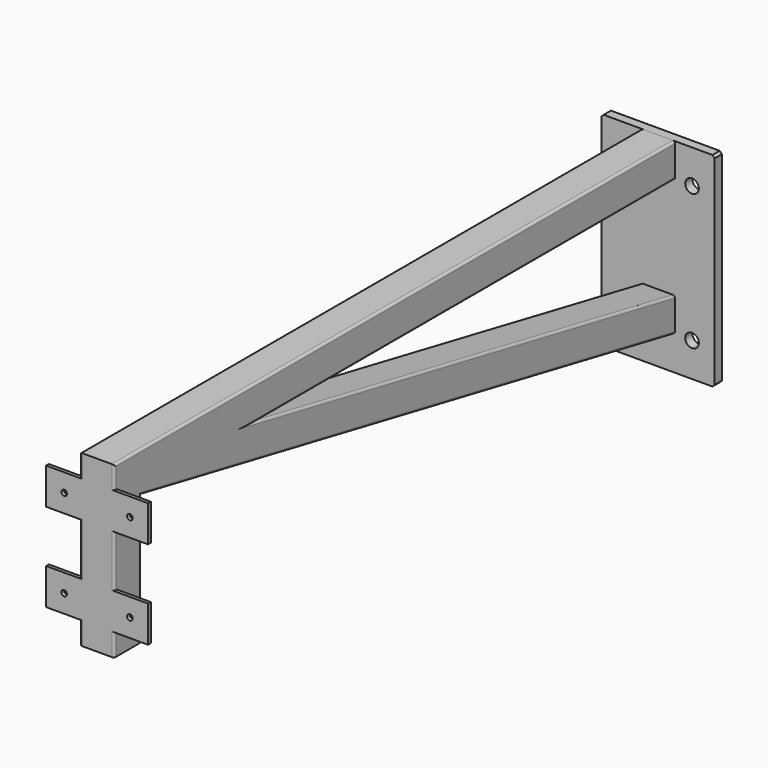
from build123d import *

# Parameters (mm, degrees)
F0_W      = 100
F0_H      = 180
F0_R      = 6
F1_DEPTH  = 8
F2_SIZE   = 2
F4_W      = 24
F4_H      = 24
F8_DEPTH  = 3
F9_W      = 32
F9_H      = 32
F9_R      = 2.5
F10_DEPTH = 3


with BuildPart() as f1:
    # F0 (on Front) → F1 (new body)
    with BuildSketch(Plane.XZ):
        Rectangle(F0_W, F0_H)
        with Locations((-30, -60)):
            Circle(F0_R, mode=Mode.SUBTRACT)
        with Locations((30, -60)):
            Circle(F0_R, mode=Mode.SUBTRACT)
        with Locations((-30, 60)):
            Circle(F0_R, mode=Mode.SUBTRACT)
        with Locations((30, 60)):
            Circle(F0_R, mode=Mode.SUBTRACT)
    extrude(amount=F1_DEPTH)

    # F2
    f2_edges = [f1.edges().sort_by_distance(p)[0] for p in [
        (50, -4, 90),
        (50, -4, -90),
        (-50, -4, -90),
        (-50, -4, 90),
    ]]
    chamfer(f2_edges, length=F2_SIZE)


with BuildPart() as f5:
    # F5: sweep along a path in F3
    with BuildLine(Plane.YZ) as f5_path:
        Line((-8, 90), (-627, 90))
        Line((-627, 90), (-627, -57))
    # F4 (on face) → F5 (sweep)
    with BuildSketch(Plane.XZ.offset(8)):
        with BuildLine():
            Line((13, 90), (-13, 90))
            ThreePointArc((-13, 90), (-14.4142135624, 89.4142135624), (-15, 88))
            Line((-15, 88), (-15, 62))
            ThreePointArc((-15, 62), (-14.4142135624, 60.5857864376), (-13, 60))
            Line((-13, 60), (13, 60))
            ThreePointArc((13, 60), (14.4142135624, 60.5857864376), (15, 62))
            Line((15, 62), (15, 88))
            ThreePointArc((15, 88), (14.4142135624, 89.4142135624), (13, 90))
        make_face()
        with Locations((0, 75)):
            Rectangle(F4_W, F4_H, mode=Mode.SUBTRACT)
    sweep(path=f5_path.line, transition=Transition.RIGHT)

    # F6: sweep along a path in F3
    with BuildLine(Plane.YZ) as f6_path:
        Line((-599, 55), (-8, -60))
    # F4 (on face) → F6 (sweep)
    with BuildSketch(Plane.XZ.offset(8)):
        with BuildLine():
            Line((13, -30), (-13, -30))
            ThreePointArc((-13, -30), (-14.4142135624, -30.5857864376), (-15, -32))
            Line((-15, -32), (-15, -58))
            ThreePointArc((-15, -58), (-14.4142135624, -59.4142135624), (-13, -60))
            Line((-13, -60), (13, -60))
            ThreePointArc((13, -60), (14.4142135624, -59.4142135624), (15, -58))
            Line((15, -58), (15, -32))
            ThreePointArc((15, -32), (14.4142135624, -30.5857864376), (13, -30))
        make_face()
        with Locations((0, -45)):
            Rectangle(F4_W, F4_H, mode=Mode.SUBTRACT)
    sweep(path=f6_path.line)

    # F7 (on face) → F8 (join)
    with BuildSketch(Plane(origin=(0, 0, -57), x_dir=(1, 0, 0), z_dir=(0, 0, -1))):
        with BuildLine():
            ThreePointArc((-13, 627), (-14.4142135624, 626.4142135624), (-15, 625))
            Line((-15, 625), (-15, 599))
            ThreePointArc((-15, 599), (-14.4142135624, 597.5857864376), (-13, 597))
            Line((-13, 597), (13, 597))
            ThreePointArc((13, 597), (14.4142135624, 597.5857864376), (15, 599))
            Line((15, 599), (15, 625))
            ThreePointArc((15, 625), (14.4142135624, 626.4142135624), (13, 627))
            Line((13, 627), (-13, 627))
        make_face()
    extrude(amount=F8_DEPTH)

    # F9 (on face) → F10 (join)
    with BuildSketch(Plane.XZ.offset(627)):
        with Locations((29, 54)):
            Rectangle(F9_W, F9_H)
        with Locations((29, 54)):
            Circle(F9_R, mode=Mode.SUBTRACT)
        with Locations((29, -24)):
            Rectangle(F9_W, F9_H)
        with Locations((29, -24)):
            Circle(F9_R, mode=Mode.SUBTRACT)
        with Locations((-29, -24)):
            Rectangle(F9_W, F9_H)
        with Locations((-29, -24)):
            Circle(F9_R, mode=Mode.SUBTRACT)
        with Locations((-29, 54)):
            Rectangle(F9_W, F9_H)
        with Locations((-29, 54)):
            Circle(F9_R, mode=Mode.SUBTRACT)
    extrude(amount=-F10_DEPTH)


solid = Compound([f1.part, f5.part])
